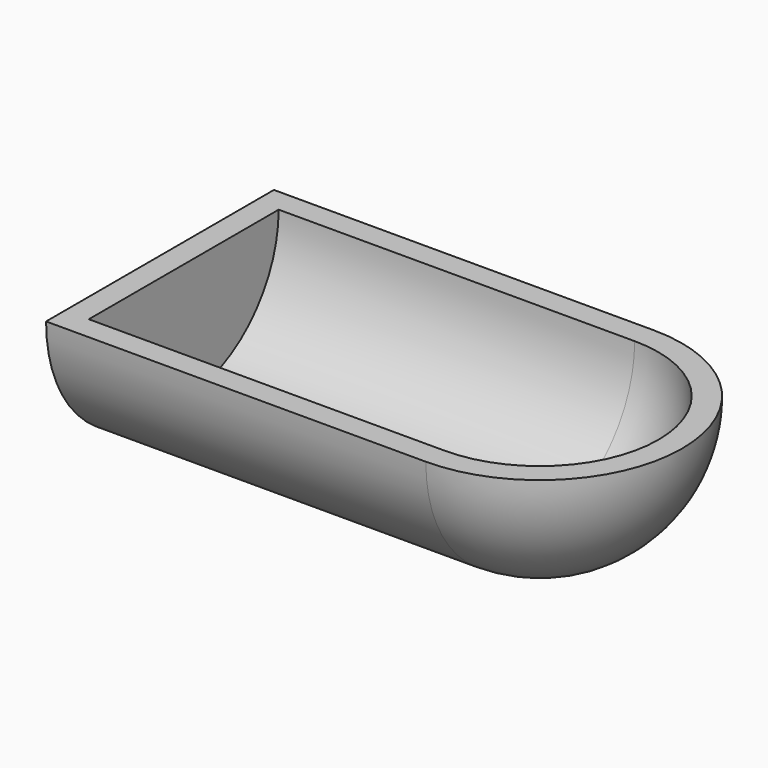
from build123d import *

# Parameters (mm, degrees)
F1_ANGLE_BACK = 90
F1_ANGLE      = 180


with BuildPart() as f1:
    # F0 (on Front) → F1 (revolve)
    with BuildSketch(Plane.XZ, mode=Mode.PRIVATE) as f1_sk:
        Polygon((-95.25, -31.75), (-95.25, 0), (-101.6, 0), (-101.6, -38.1), (0, -38.1), (0, -31.75), align=None)
        with BuildLine():
            ThreePointArc((31.75, 0), (22.4506403027, -22.4506403027), (0, -31.75))
            Line((0, -31.75), (0, -38.1))
            ThreePointArc((0, -38.1), (26.9407683632, -26.9407683632), (38.1, 0))
            Line((38.1, 0), (31.75, 0))
        make_face()
    revolve(f1_sk.sketch.rotate(Axis((-50.8, 0, 0), (-1, 0, 0)), -F1_ANGLE_BACK), axis=Axis((-50.8, 0, 0), (-1, 0, 0)), revolution_arc=F1_ANGLE)


solid = f1.part
